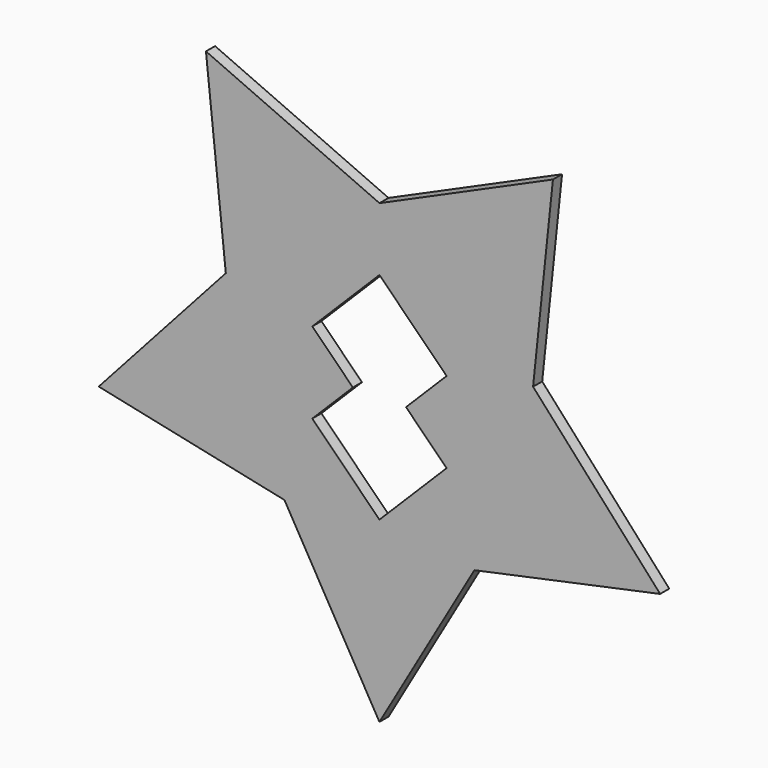
from build123d import *

# Parameters (mm, degrees)
F1_DEPTH = 3.81


with BuildPart() as f1:
    # F0 (on Front) → F1 (new body)
    with BuildSketch(Plane.XZ):
        Polygon((58.010137, 83.374746), (0, 57.54697), (-58.010137, 83.374746), (-51.372579, 20.222606), (-93.862373, -26.96709), (-31.75, -40.169483), (0, -95.162096), (31.75, -40.169483), (93.862373, -26.96709), (51.372579, 20.222606), align=None)
        Polygon((-22.45064, -13.165497), (-8.883978, 0.401165), (-22.45064, 13.967827), (0, 36.418468), (22.45064, 13.967827), (8.883978, 0.401165), (22.45064, -13.165497), (0, -35.616137), align=None, mode=Mode.SUBTRACT)
    extrude(amount=F1_DEPTH)


solid = f1.part
